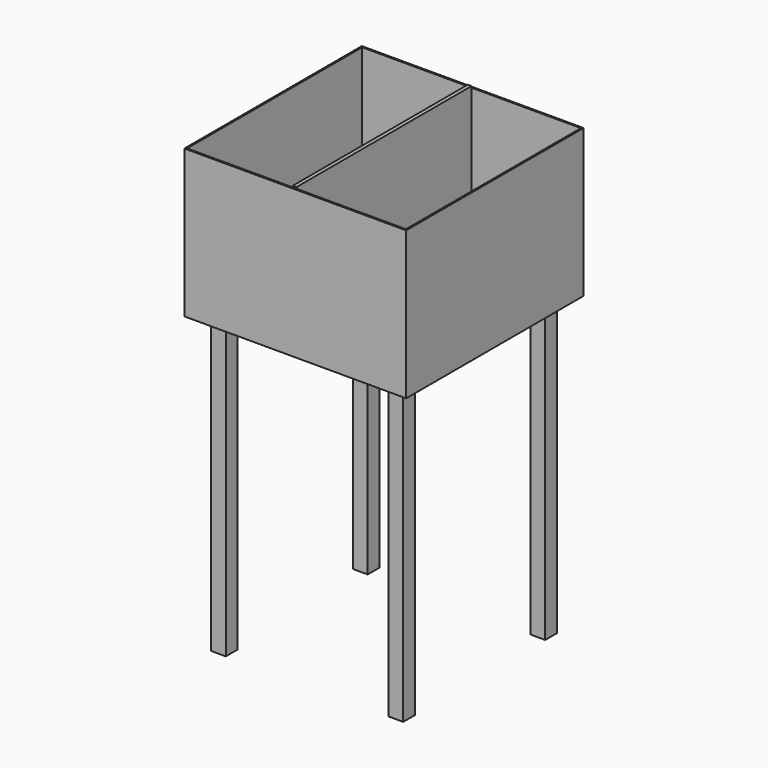
from build123d import *

# Parameters (mm, degrees)
F0_W     = 381
F0_H     = 381
F1_DEPTH = 254
F2_T     = -2.54
F3_W     = 25.4
F3_H     = 25.4
F4_DEPTH = 508
F5_W     = 6.35
F5_H     = 375.92
F6_DEPTH = 254


with BuildPart() as f1:
    # F0 (on Top) → F1 (new body)
    with BuildSketch(Plane.XY):
        with Locations((190.5, -190.5)):
            Rectangle(F0_W, F0_H)
    extrude(amount=F1_DEPTH)

    # F2
    f2_openings = [f1.faces().sort_by_distance(p)[0] for p in [
        (190.5, -190.5, 254),
    ]]
    offset(amount=F2_T, openings=f2_openings)

    # F3 (on face) → F4 (join)
    with BuildSketch(Plane(origin=(0, 0, 0), x_dir=(1, 0, 0), z_dir=(0, 0, -1))):
        with Locations((38.1, 342.9)):
            Rectangle(F3_W, F3_H)
        with Locations((342.9, 342.9)):
            Rectangle(F3_W, F3_H)
        with Locations((38.1, 38.1)):
            Rectangle(F3_W, F3_H)
        with Locations((342.9, 38.1)):
            Rectangle(F3_W, F3_H)
    extrude(amount=F4_DEPTH)

    # F5 (on face) → F6 (join)
    with BuildSketch(Plane.XY.offset(2.54)):
        with Locations((187.325, -190.5)):
            Rectangle(F5_W, F5_H)
    extrude(amount=F6_DEPTH)


solid = f1.part
